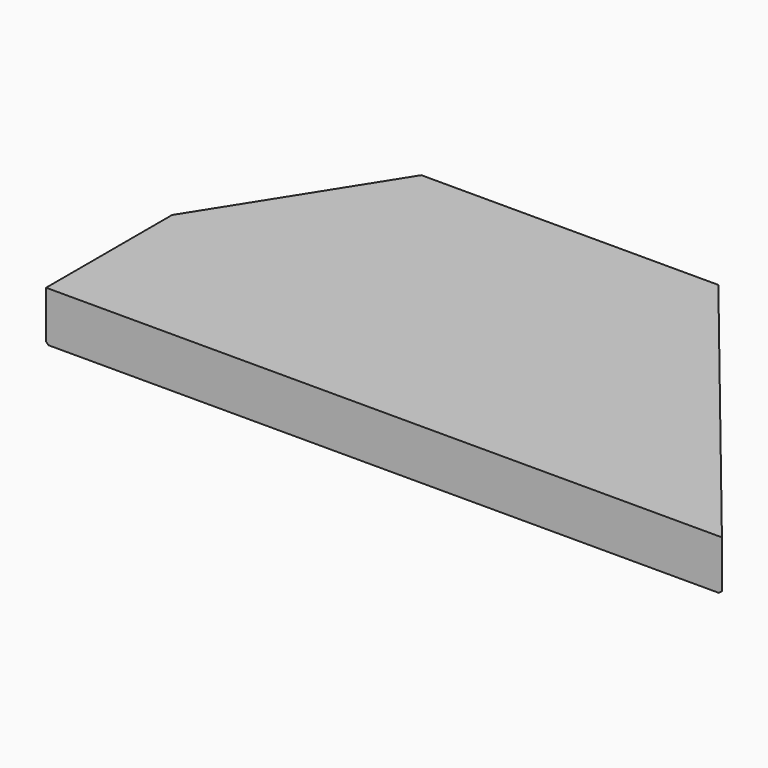
from build123d import *

# Parameters (mm, degrees)
F1_DEPTH = 6.35
F2_SIZE  = 0.3175


with BuildPart() as f1:
    # F0 (on Top) → F1 (new body)
    with BuildSketch(Plane.XY):
        Polygon((-41.061148, 20.041749), (-41.061148, 0), (44.971734, 0), (10.743298, 42.216703), (-27.064905, 42.216703), align=None)
    extrude(amount=F1_DEPTH)

    # F2
    f2_edges = [f1.edges().sort_by_distance(p)[0] for p in [
        (27.857516, 21.108352, 0),
        (-8.160804, 42.216703, 0),
        (-34.063026, 31.129226, 0),
        (-41.061148, 10.020874, 0),
    ]]
    chamfer(f2_edges, length=F2_SIZE)


solid = f1.part
